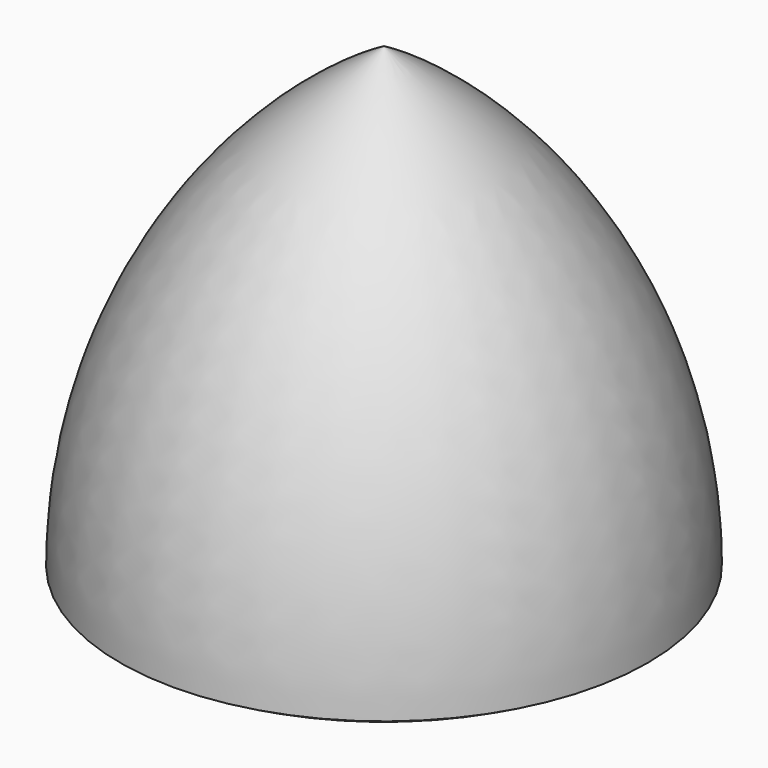
from build123d import *


with BuildPart() as f1:
    # F0 (on Front) → F1 (revolve)
    with BuildSketch(Plane.XZ):
        with BuildLine():
            ThreePointArc((0, 50.8), (-32.205909, 18.594091), (-43.994091, -25.4))
            Line((-43.994091, -25.4), (0, 50.8))
        make_face()
        Polygon((0, 50.8), (-43.994091, -25.4), (0, -25.4), align=None)
        with BuildLine():
            Line((0, -25.4), (-43.994091, -25.4))
            ThreePointArc((-43.994091, -25.4), (-22.773017, -34.190056), (0, -37.188181))
            Line((0, -37.188181), (0, -25.4))
        make_face()
    revolve(axis=Axis((0, 0, 6.805909), (0, 0, -1)))


solid = f1.part
